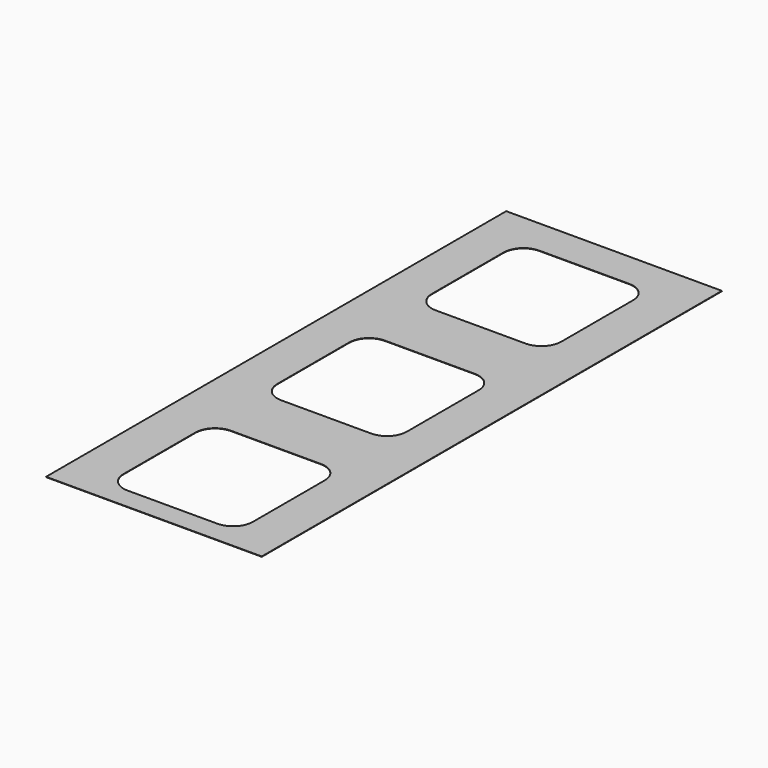
from build123d import *

# Parameters (mm, degrees)
F0_W     = 152.4
F0_H     = 406.4
F1_DEPTH = 0.254
F4_DEPTH = 0.255
F5_DEPTH = 0.255
F7_DEPTH = 0.255


with BuildPart() as f1:
    # F0 (on Top) → F1 (new body)
    with BuildSketch(Plane.XY):
        with Locations((0, 86.128879)):
            Rectangle(F0_W, F0_H)
    extrude(amount=F1_DEPTH)

    # F3 (on face) → F4 (cut, through all)
    with BuildSketch(Plane.XY.offset(0.254)):
        with BuildLine():
            Line((31.598285, 126.768879), (-31.901715, 126.768879))
            ThreePointArc((-31.901715, 126.768879), (-41.779997, 122.677161), (-45.871715, 112.798879))
            Line((-45.871715, 112.798879), (-45.871715, 49.298879))
            ThreePointArc((-45.871715, 49.298879), (-41.779997, 39.420598), (-31.901715, 35.328879))
            Line((-31.901715, 35.328879), (31.598285, 35.328879))
            ThreePointArc((31.598285, 35.328879), (41.476567, 39.420598), (45.568285, 49.298879))
            Line((45.568285, 49.298879), (45.568285, 112.798879))
            ThreePointArc((45.568285, 112.798879), (41.476567, 122.677161), (31.598285, 126.768879))
        make_face()
    extrude(amount=-F4_DEPTH, mode=Mode.SUBTRACT)

    # F2 (on face) → F5 (cut, through all)
    with BuildSketch(Plane.XY.offset(0.254)):
        with BuildLine():
            Line((30.973906, 263.928879), (-32.526094, 263.928879))
            ThreePointArc((-32.526094, 263.928879), (-42.404376, 259.837161), (-46.496094, 249.958879))
            Line((-46.496094, 249.958879), (-46.496094, 186.458879))
            ThreePointArc((-46.496094, 186.458879), (-42.404376, 176.580598), (-32.526094, 172.488879))
            Line((-32.526094, 172.488879), (30.973906, 172.488879))
            ThreePointArc((30.973906, 172.488879), (40.852188, 176.580598), (44.943906, 186.458879))
            Line((44.943906, 186.458879), (44.943906, 249.958879))
            ThreePointArc((44.943906, 249.958879), (40.852188, 259.837161), (30.973906, 263.928879))
        make_face()
    extrude(amount=-F5_DEPTH, mode=Mode.SUBTRACT)

    # F6 (on face) → F7 (cut, through all)
    with BuildSketch(Plane.XY.offset(0.254)):
        with BuildLine():
            Line((32.582681, -10.391121), (-30.917319, -10.391121))
            ThreePointArc((-30.917319, -10.391121), (-40.7956, -14.482839), (-44.887319, -24.361121))
            Line((-44.887319, -24.361121), (-44.887319, -87.861121))
            ThreePointArc((-44.887319, -87.861121), (-40.7956, -97.739402), (-30.917319, -101.831121))
            Line((-30.917319, -101.831121), (32.582681, -101.831121))
            ThreePointArc((32.582681, -101.831121), (42.460963, -97.739402), (46.552681, -87.861121))
            Line((46.552681, -87.861121), (46.552681, -24.361121))
            ThreePointArc((46.552681, -24.361121), (42.460963, -14.482839), (32.582681, -10.391121))
        make_face()
    extrude(amount=-F7_DEPTH, mode=Mode.SUBTRACT)


solid = f1.part
